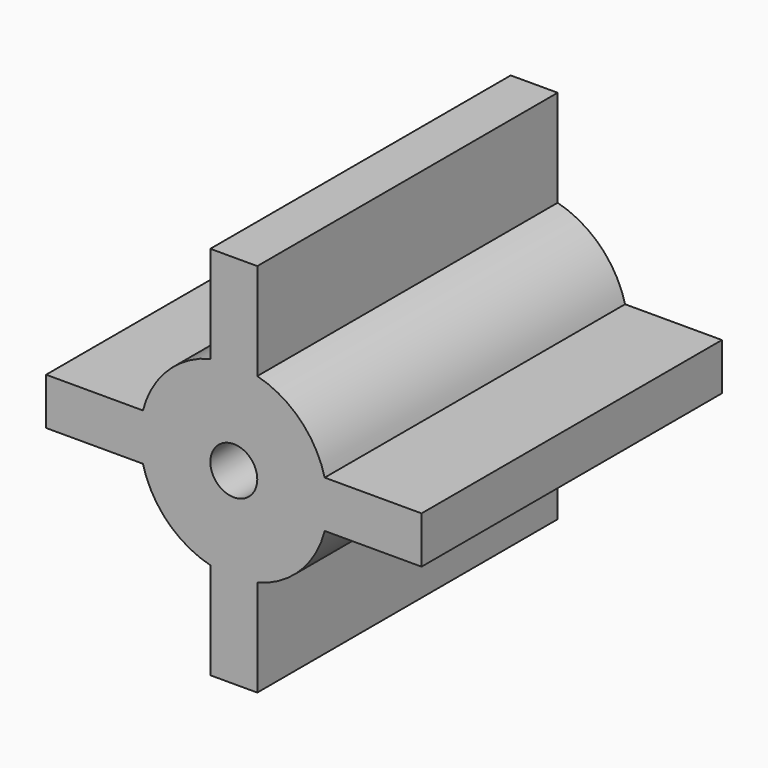
from build123d import *

# Parameters (mm, degrees)
F0_R     = 12.7
F1_DEPTH = 50.8
F3_DEPTH = 3.175
F5_DEPTH = 3.175
F7_D     = 6.35


with BuildPart() as f1:
    # F0 (on Front) → F1 (new body)
    with BuildSketch(Plane.XZ):
        Circle(F0_R)
    extrude(amount=F1_DEPTH)

    # F2 (on Right) → F3 (join, symmetric)
    with BuildSketch(Plane.YZ):
        Polygon((0, 0), (0, 25.4), (-50.8, 25.4), (-50.8, -25.4), (0, -25.4), align=None)
    extrude(amount=F3_DEPTH, both=True)

    # F4 (on Top) → F5 (join, symmetric)
    with BuildSketch(Plane.XY):
        Polygon((0, 0), (-25.4, 0), (-25.4, -50.8), (25.4, -50.8), (25.4, 0), align=None)
    extrude(amount=F5_DEPTH, both=True)

    # F7 (through all)
    with Locations(Plane(origin=(0, 0, 0), x_dir=(-1, 0, 0), z_dir=(0, 1, 0))):
        with Locations((0, 0)):
            Hole(F7_D / 2)


solid = f1.part
